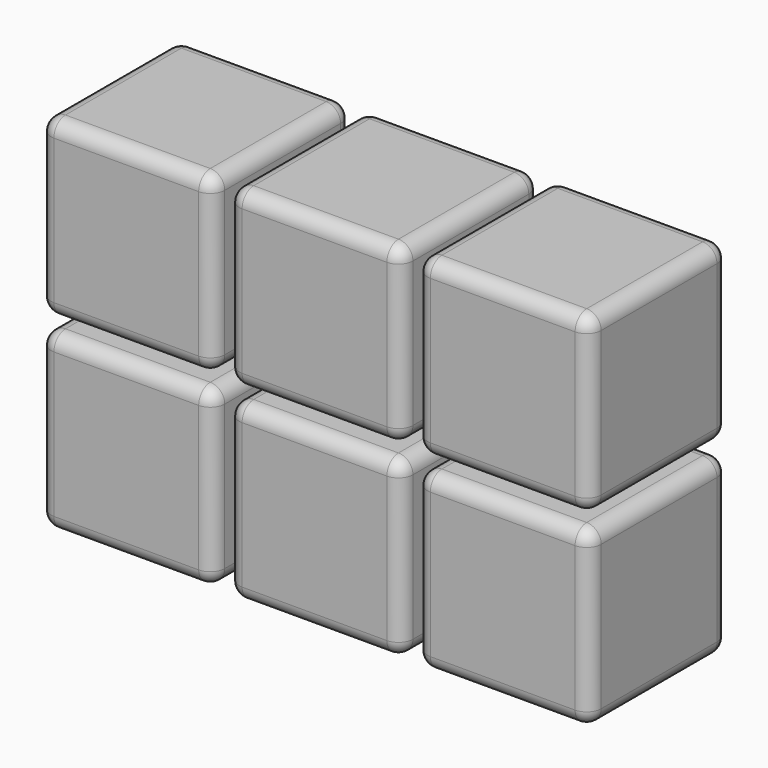
from build123d import *

# Parameters (mm, degrees)
F1_DEPTH = 24
F2_R     = 2
F2_2_R   = 2
F2_3_R   = 2
F2_4_R   = 2
F2_5_R   = 2
F2_6_R   = 2


with BuildPart() as f1:
    # F0 (on Front) → F1 (new body)
    with BuildSketch(Plane.XZ):
        with BuildLine():
            Line((-43.137260735, 48.9443709028), (-63.137260735, 48.9443709028))
            ThreePointArc((-63.137260735, 48.9443709028), (-64.5514742974, 48.3585844652), (-65.137260735, 46.9443709028))
            Line((-65.137260735, 46.9443709028), (-65.137260735, 26.9443709028))
            ThreePointArc((-65.137260735, 26.9443709028), (-64.5514742974, 25.5301573404), (-63.137260735, 24.9443709028))
            Line((-63.137260735, 24.9443709028), (-43.137260735, 24.9443709028))
            ThreePointArc((-43.137260735, 24.9443709028), (-41.7230471727, 25.5301573404), (-41.137260735, 26.9443709028))
            Line((-41.137260735, 26.9443709028), (-41.137260735, 46.9443709028))
            ThreePointArc((-41.137260735, 46.9443709028), (-41.7230471727, 48.3585844652), (-43.137260735, 48.9443709028))
        make_face()
    extrude(amount=F1_DEPTH)

    # F2#4
    f2_4_edges = [f1.edges().sort_by_distance(p)[0] for p in [
        (-53.137261, -24, 48.944371),
        (-64.551474, -24, 48.358584),
        (-65.137261, -24, 36.944371),
        (-64.551474, -24, 25.530157),
        (-53.137261, -24, 24.944371),
        (-41.723047, -24, 25.530157),
        (-41.137261, -24, 36.944371),
        (-41.723047, -24, 48.358584),
        (-53.137261, 0, 48.944371),
        (-64.551474, 0, 48.358584),
        (-65.137261, 0, 36.944371),
        (-64.551474, 0, 25.530157),
        (-53.137261, 0, 24.944371),
        (-41.723047, 0, 25.530157),
        (-41.137261, 0, 36.944371),
        (-41.723047, 0, 48.358584),
    ]]
    fillet(f2_4_edges, radius=F2_4_R)


with BuildPart() as f1b:
    # F0 (on Front) → F1, piece 2 (new body)
    with BuildSketch(Plane.XZ):
        with BuildLine():
            Line((-43.137260735, 22.9443709028), (-63.137260735, 22.9443709028))
            ThreePointArc((-63.137260735, 22.9443709028), (-64.5514742974, 22.3585844652), (-65.137260735, 20.9443709028))
            Line((-65.137260735, 20.9443709028), (-65.137260735, 0.9443709028))
            ThreePointArc((-65.137260735, 0.9443709028), (-64.5514742974, -0.4698426596), (-63.137260735, -1.0556290972))
            Line((-63.137260735, -1.0556290972), (-43.137260735, -1.0556290972))
            ThreePointArc((-43.137260735, -1.0556290972), (-41.7230471727, -0.4698426596), (-41.137260735, 0.9443709028))
            Line((-41.137260735, 0.9443709028), (-41.137260735, 20.9443709028))
            ThreePointArc((-41.137260735, 20.9443709028), (-41.7230471727, 22.3585844652), (-43.137260735, 22.9443709028))
        make_face()
    extrude(amount=F1_DEPTH)

    # F2#3
    f2_3_edges = [f1b.edges().sort_by_distance(p)[0] for p in [
        (-41.137261, -24, 10.944371),
        (-41.723047, -24, 22.358584),
        (-53.137261, -24, 22.944371),
        (-64.551474, -24, 22.358584),
        (-65.137261, -24, 10.944371),
        (-64.551474, -24, -0.469843),
        (-53.137261, -24, -1.055629),
        (-41.723047, -24, -0.469843),
        (-41.137261, 0, 10.944371),
        (-41.723047, 0, 22.358584),
        (-53.137261, 0, 22.944371),
        (-64.551474, 0, 22.358584),
        (-65.137261, 0, 10.944371),
        (-64.551474, 0, -0.469843),
        (-53.137261, 0, -1.055629),
        (-41.723047, 0, -0.469843),
    ]]
    fillet(f2_3_edges, radius=F2_3_R)


with BuildPart() as f1c:
    # F0 (on Front) → F1, piece 3 (new body)
    with BuildSketch(Plane.XZ):
        with BuildLine():
            Line((-69.137260735, 48.944370891), (-89.137260735, 48.944370891))
            ThreePointArc((-89.137260735, 48.944370891), (-90.5514742974, 48.3585844533), (-91.137260735, 46.944370891))
            Line((-91.137260735, 46.944370891), (-91.137260735, 26.944370891))
            ThreePointArc((-91.137260735, 26.944370891), (-90.5514742974, 25.5301573286), (-89.137260735, 24.944370891))
            Line((-89.137260735, 24.944370891), (-69.137260735, 24.944370891))
            ThreePointArc((-69.137260735, 24.944370891), (-67.7230471727, 25.5301573286), (-67.137260735, 26.944370891))
            Line((-67.137260735, 26.944370891), (-67.137260735, 46.944370891))
            ThreePointArc((-67.137260735, 46.944370891), (-67.7230471727, 48.3585844533), (-69.137260735, 48.944370891))
        make_face()
    extrude(amount=F1_DEPTH)

    # F2#5
    f2_5_edges = [f1c.edges().sort_by_distance(p)[0] for p in [
        (-67.723047, -24, 48.358584),
        (-79.137261, -24, 48.944371),
        (-90.551474, -24, 48.358584),
        (-91.137261, -24, 36.944371),
        (-90.551474, -24, 25.530157),
        (-79.137261, -24, 24.944371),
        (-67.723047, -24, 25.530157),
        (-67.137261, -24, 36.944371),
        (-67.723047, 0, 48.358584),
        (-79.137261, 0, 48.944371),
        (-90.551474, 0, 48.358584),
        (-91.137261, 0, 36.944371),
        (-90.551474, 0, 25.530157),
        (-79.137261, 0, 24.944371),
        (-67.723047, 0, 25.530157),
        (-67.137261, 0, 36.944371),
    ]]
    fillet(f2_5_edges, radius=F2_5_R)


with BuildPart() as f1d:
    # F0 (on Front) → F1, piece 4 (new body)
    with BuildSketch(Plane.XZ):
        with BuildLine():
            Line((-69.137260735, 22.944370891), (-89.137260735, 22.944370891))
            ThreePointArc((-89.137260735, 22.944370891), (-90.5514742974, 22.3585844533), (-91.137260735, 20.944370891))
            Line((-91.137260735, 20.944370891), (-91.137260735, 0.944370891))
            ThreePointArc((-91.137260735, 0.944370891), (-90.5514742974, -0.4698426714), (-89.137260735, -1.055629109))
            Line((-89.137260735, -1.055629109), (-69.137260735, -1.055629109))
            ThreePointArc((-69.137260735, -1.055629109), (-67.7230471727, -0.4698426714), (-67.137260735, 0.944370891))
            Line((-67.137260735, 0.944370891), (-67.137260735, 20.944370891))
            ThreePointArc((-67.137260735, 20.944370891), (-67.7230471727, 22.3585844533), (-69.137260735, 22.944370891))
        make_face()
    extrude(amount=F1_DEPTH)

    # F2#2
    f2_2_edges = [f1d.edges().sort_by_distance(p)[0] for p in [
        (-67.137261, -24, 10.944371),
        (-67.723047, -24, 22.358584),
        (-79.137261, -24, 22.944371),
        (-90.551474, -24, 22.358584),
        (-91.137261, -24, 10.944371),
        (-90.551474, -24, -0.469843),
        (-79.137261, -24, -1.055629),
        (-67.723047, -24, -0.469843),
        (-67.137261, 0, 10.944371),
        (-67.723047, 0, 22.358584),
        (-79.137261, 0, 22.944371),
        (-90.551474, 0, 22.358584),
        (-91.137261, 0, 10.944371),
        (-90.551474, 0, -0.469843),
        (-79.137261, 0, -1.055629),
        (-67.723047, 0, -0.469843),
    ]]
    fillet(f2_2_edges, radius=F2_2_R)


with BuildPart() as f1e:
    # F0 (on Front) → F1, piece 5 (new body)
    with BuildSketch(Plane.XZ):
        with BuildLine():
            Line((-95.137260735, 49.0845778957), (-115.137260735, 49.0845778957))
            ThreePointArc((-115.137260735, 49.0845778957), (-116.5514742974, 48.4987914581), (-117.137260735, 47.0845778957))
            Line((-117.137260735, 47.0845778957), (-117.137260735, 27.0845778957))
            ThreePointArc((-117.137260735, 27.0845778957), (-116.5514742974, 25.6703643333), (-115.137260735, 25.0845778957))
            Line((-115.137260735, 25.0845778957), (-95.137260735, 25.0845778957))
            ThreePointArc((-95.137260735, 25.0845778957), (-93.7230471727, 25.6703643333), (-93.137260735, 27.0845778957))
            Line((-93.137260735, 27.0845778957), (-93.137260735, 47.0845778957))
            ThreePointArc((-93.137260735, 47.0845778957), (-93.7230471727, 48.4987914581), (-95.137260735, 49.0845778957))
        make_face()
    extrude(amount=F1_DEPTH)

    # F2#6
    f2_6_edges = [f1e.edges().sort_by_distance(p)[0] for p in [
        (-105.137261, -24, 49.084578),
        (-116.551474, -24, 48.498791),
        (-117.137261, -24, 37.084578),
        (-116.551474, -24, 25.670364),
        (-105.137261, -24, 25.084578),
        (-93.723047, -24, 25.670364),
        (-93.137261, -24, 37.084578),
        (-93.723047, -24, 48.498791),
        (-105.137261, 0, 49.084578),
        (-116.551474, 0, 48.498791),
        (-117.137261, 0, 37.084578),
        (-116.551474, 0, 25.670364),
        (-105.137261, 0, 25.084578),
        (-93.723047, 0, 25.670364),
        (-93.137261, 0, 37.084578),
        (-93.723047, 0, 48.498791),
    ]]
    fillet(f2_6_edges, radius=F2_6_R)


with BuildPart() as f1f:
    # F0 (on Front) → F1, piece 6 (new body)
    with BuildSketch(Plane.XZ):
        with BuildLine():
            Line((-95.137260735, 23.0845778957), (-115.137260735, 23.0845778957))
            ThreePointArc((-115.137260735, 23.0845778957), (-116.5514742974, 22.4987914581), (-117.137260735, 21.0845778957))
            Line((-117.137260735, 21.0845778957), (-117.137260735, 1.0845778957))
            ThreePointArc((-117.137260735, 1.0845778957), (-116.5514742974, -0.3296356667), (-115.137260735, -0.9154221043))
            Line((-115.137260735, -0.9154221043), (-95.137260735, -0.9154221043))
            ThreePointArc((-95.137260735, -0.9154221043), (-93.7230471727, -0.3296356667), (-93.137260735, 1.0845778957))
            Line((-93.137260735, 1.0845778957), (-93.137260735, 21.0845778957))
            ThreePointArc((-93.137260735, 21.0845778957), (-93.7230471727, 22.4987914581), (-95.137260735, 23.0845778957))
        make_face()
    extrude(amount=F1_DEPTH)

    # F2
    f2_edges = [f1f.edges().sort_by_distance(p)[0] for p in [
        (-105.137261, -24, 23.084578),
        (-116.551474, -24, 22.498791),
        (-117.137261, -24, 11.084578),
        (-116.551474, -24, -0.329636),
        (-105.137261, -24, -0.915422),
        (-93.723047, -24, -0.329636),
        (-93.137261, -24, 11.084578),
        (-93.723047, -24, 22.498791),
        (-105.137261, 0, 23.084578),
        (-116.551474, 0, 22.498791),
        (-117.137261, 0, 11.084578),
        (-116.551474, 0, -0.329636),
        (-105.137261, 0, -0.915422),
        (-93.723047, 0, -0.329636),
        (-93.137261, 0, 11.084578),
        (-93.723047, 0, 22.498791),
    ]]
    fillet(f2_edges, radius=F2_R)


solid = Compound([f1.part, f1b.part, f1c.part, f1d.part, f1e.part, f1f.part])
